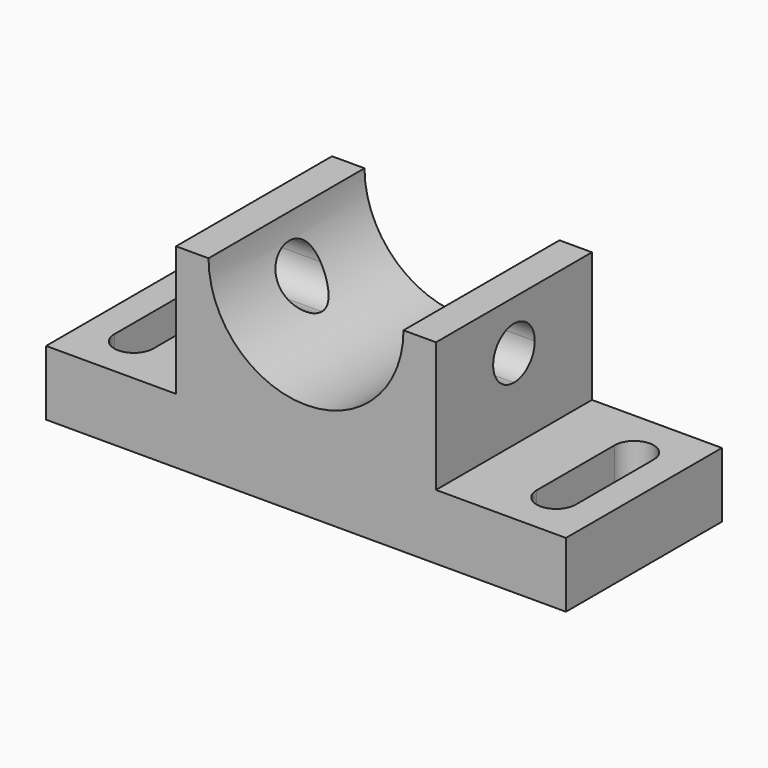
from build123d import *

# Parameters (mm, degrees)
F1_DEPTH = 60
F3_DEPTH = 120.001
F5_DEPTH = 20.001


with BuildPart() as f1:
    # F0 (on Front) → F1 (new body)
    with BuildSketch(Plane.XZ):
        with BuildLine():
            Line((-80, -10), (-80, -30))
            Line((-80, -30), (80, -30))
            Line((80, -30), (80, -10))
            Line((80, -10), (40, -10))
            Line((40, -10), (40, 30))
            Line((40, 30), (30, 30))
            ThreePointArc((30, 30), (0, 0), (-30, 30))
            Line((-30, 30), (-40, 30))
            Line((-40, 30), (-40, -10))
            Line((-40, -10), (-80, -10))
        make_face()
    extrude(amount=F1_DEPTH)

    # F2 (on face) → F3 (cut, through all)
    with BuildSketch(Plane.YZ.offset(40)):
        with BuildLine():
            ThreePointArc((-30, 6.8799550533), (-24.3431457505, 9.2231008038), (-22, 14.8799550533))
            ThreePointArc((-22, 14.8799550533), (-35.6568542495, 20.5368093028), (-30, 6.8799550533))
        make_face()
    extrude(amount=-F3_DEPTH, mode=Mode.SUBTRACT)

    # F4 (on face) → F5 (cut, through all)
    with BuildSketch(Plane.XY.offset(-10)):
        with BuildLine():
            ThreePointArc((59, -45), (60.7573593129, -49.2426406871), (65, -51))
            Line((65, -51), (65, -45))
            Line((65, -45), (59, -45))
        make_face()
        with BuildLine():
            Line((65, -45), (65, -51))
            ThreePointArc((65, -51), (69.2426406871, -49.2426406871), (71, -45))
            Line((71, -45), (65, -45))
        make_face()
        with BuildLine():
            ThreePointArc((-71, -45), (-69.2426406871, -49.2426406871), (-65, -51))
            Line((-65, -51), (-65, -45))
            Line((-65, -45), (-71, -45))
        make_face()
        with BuildLine():
            Line((-65, -45), (-65, -51))
            ThreePointArc((-65, -51), (-60.7573593129, -49.2426406871), (-59, -45))
            Line((-59, -45), (-65, -45))
        make_face()
        with BuildLine():
            Line((-71, -45), (-65, -45))
            Line((-65, -45), (-65, -39))
            ThreePointArc((-65, -39), (-69.2426406871, -40.7573593129), (-71, -45))
        make_face()
        with BuildLine():
            Line((-65, -39), (-65, -45))
            Line((-65, -45), (-59, -45))
            ThreePointArc((-59, -45), (-60.7573593129, -40.7573593129), (-65, -39))
        make_face()
        with BuildLine():
            Line((-71, -15), (-71, -45))
            ThreePointArc((-71, -45), (-69.2426406871, -40.7573593129), (-65, -39))
            ThreePointArc((-65, -39), (-60.7573593129, -40.7573593129), (-59, -45))
            Line((-59, -45), (-59, -15))
            ThreePointArc((-59, -15), (-65, -21), (-71, -15))
        make_face()
        with BuildLine():
            Line((59, -45), (65, -45))
            Line((65, -45), (65, -39))
            ThreePointArc((65, -39), (60.7573593129, -40.7573593129), (59, -45))
        make_face()
        with BuildLine():
            Line((65, -39), (65, -45))
            Line((65, -45), (71, -45))
            ThreePointArc((71, -45), (69.2426406871, -40.7573593129), (65, -39))
        make_face()
        with BuildLine():
            Line((59, -15), (59, -45))
            ThreePointArc((59, -45), (60.7573593129, -40.7573593129), (65, -39))
            ThreePointArc((65, -39), (69.2426406871, -40.7573593129), (71, -45))
            Line((71, -45), (71, -15))
            ThreePointArc((71, -15), (65, -21), (59, -15))
        make_face()
        with BuildLine():
            ThreePointArc((-59, -15), (-65, -9), (-71, -15))
            Line((-71, -15), (-59, -15))
        make_face()
        with BuildLine():
            Line((-59, -15), (-71, -15))
            ThreePointArc((-71, -15), (-65, -21), (-59, -15))
        make_face()
        with BuildLine():
            ThreePointArc((71, -15), (65, -9), (59, -15))
            Line((59, -15), (71, -15))
        make_face()
        with BuildLine():
            Line((71, -15), (59, -15))
            ThreePointArc((59, -15), (65, -21), (71, -15))
        make_face()
    extrude(amount=-F5_DEPTH, mode=Mode.SUBTRACT)


solid = f1.part
